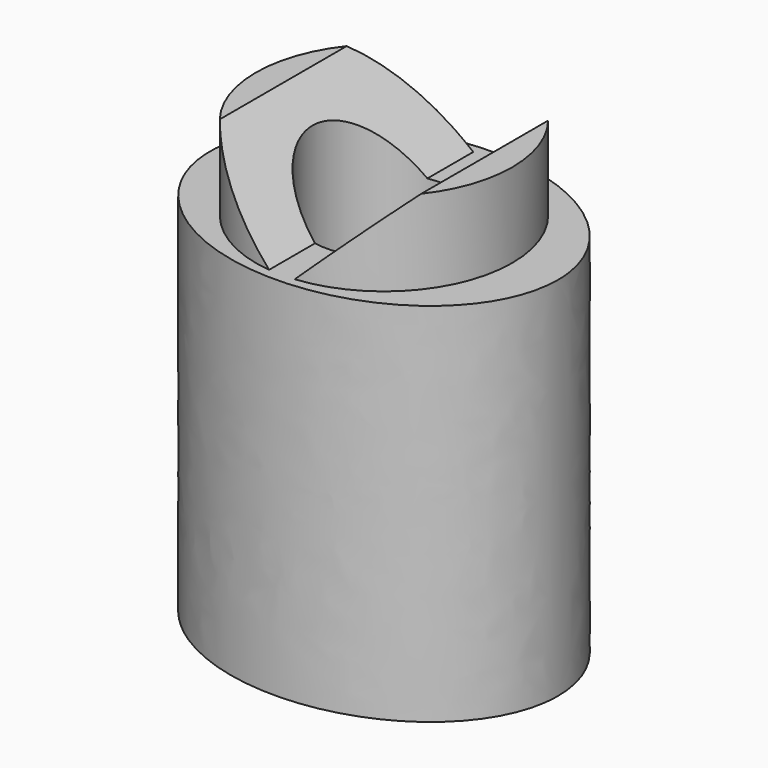
from build123d import *

# Parameters (mm, degrees)
F1_DEPTH = 20
F2_R     = 7
F3_DEPTH = 4.6
F5_DEPTH = 12.5
F6_R     = 3.9
F7_DEPTH = 24.601


with BuildPart() as f1:
    # F0 (on Top) → F1 (new body)
    with BuildSketch(Plane.XY):
        with BuildLine():
            add(Edge.make_bspline(
                [(9.5, 0), (9.5, 12.990381), (-4.75, 6.495191), (-19, 0), (-4.75, -6.495191), (9.5, -12.990381), (9.5, 0)],
                knots=[0, 0, 0, 2.094395, 2.094395, 4.18879, 4.18879, 6.283185, 6.283185, 6.283185], degree=2, weights=[1, 0.5, 1, 0.5, 1, 0.5, 1]))
        make_face()
    extrude(amount=F1_DEPTH)

    # F2 (on face) → F3 (join)
    with BuildSketch(Plane.XY.offset(20)):
        Circle(F2_R)
    extrude(amount=F3_DEPTH)

    # F4 (on Front) → F5 (cut, symmetric)
    with BuildSketch(Plane.XZ):
        Polygon((-5.5, 24.6), (-0.7, 20), (0.7, 20), (5.5, 24.6), (0.7, 24.6), (-0.7, 24.6), align=None)
    extrude(amount=F5_DEPTH, both=True, mode=Mode.SUBTRACT)

    # F6 (on face) → F7 (cut, through all)
    with BuildSketch(Plane(origin=(0, 0, 0), x_dir=(1, 0, 0), z_dir=(0, 0, -1))):
        Circle(F6_R)
    extrude(amount=-F7_DEPTH, mode=Mode.SUBTRACT)


solid = f1.part
